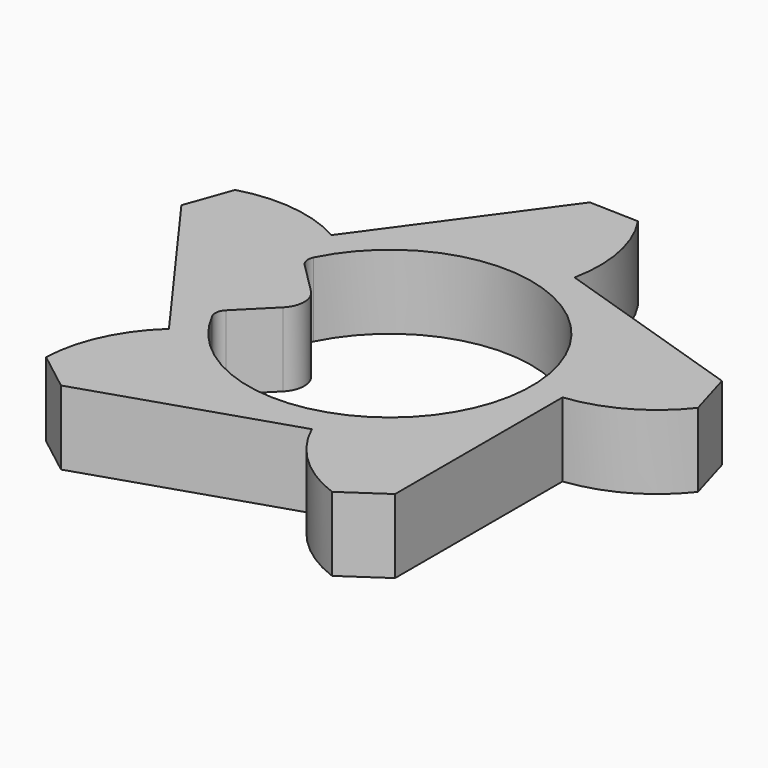
from build123d import *

# Parameters (mm, degrees)
F1_DEPTH = 0.5
F2_DEPTH = 0.6


with BuildPart() as f1:
    # F0 (on Top) → F1 (new body)
    with BuildSketch(Plane.XY):
        with BuildLine():
            Line((1.4, -1.697056), (1.4, 0))
            ThreePointArc((1.4, 0), (1.822033, 0.135222), (2.158922, 0.423148))
            Line((2.158922, 0.423148), (2.04662, 0.80706))
            Line((2.04662, 0.80706), (0.432624, 1.331479))
            ThreePointArc((0.432624, 1.331479), (0.434436, 1.774642), (0.264706, 2.184017))
            Line((0.264706, 2.184017), (-0.135119, 2.195847))
            Line((-0.135119, 2.195847), (-1.132624, 0.822899))
            ThreePointArc((-1.132624, 0.822899), (-1.553537, 0.961567), (-1.995325, 0.926649))
            Line((-1.995325, 0.926649), (-2.130128, 0.550048))
            Line((-2.130128, 0.550048), (-1.132624, -0.822899))
            ThreePointArc((-1.132624, -0.822899), (-1.394574, -1.18036), (-1.497885, -1.611317))
            Line((-1.497885, -1.611317), (-1.181373, -1.855898))
            Line((-1.181373, -1.855898), (0.432624, -1.331479))
            ThreePointArc((0.432624, -1.331479), (0.691642, -1.69107), (1.069581, -1.922497))
            Line((1.069581, -1.922497), (1.4, -1.697056))
        make_face()
        with BuildLine():
            ThreePointArc((-1.028593, 0.514292), (1.15, 0), (-1.028593, -0.514292))
            ThreePointArc((-1.028593, -0.514292), (-1.037859, -0.453553), (-1.009861, -0.398861))
            Line((-1.009861, -0.398861), (-0.752421, -0.141421))
            ThreePointArc((-0.752421, -0.141421), (-0.693843, 0), (-0.752421, 0.141421))
            Line((-0.752421, 0.141421), (-1.009861, 0.398861))
            ThreePointArc((-1.009861, 0.398861), (-1.037859, 0.453553), (-1.028593, 0.514292))
        make_face(mode=Mode.SUBTRACT)
    extrude(amount=F1_DEPTH)


with BuildPart() as f2:
    # F0 (on Top) → F2 (new body)
    with BuildSketch(Plane.XY):
        with BuildLine():
            Line((1.4, -1.697056), (1.4, 0))
            ThreePointArc((1.4, 0), (1.822033, 0.135222), (2.158922, 0.423148))
            Line((2.158922, 0.423148), (2.04662, 0.80706))
            Line((2.04662, 0.80706), (0.432624, 1.331479))
            ThreePointArc((0.432624, 1.331479), (0.434436, 1.774642), (0.264706, 2.184017))
            Line((0.264706, 2.184017), (-0.135119, 2.195847))
            Line((-0.135119, 2.195847), (-1.132624, 0.822899))
            ThreePointArc((-1.132624, 0.822899), (-1.553537, 0.961567), (-1.995325, 0.926649))
            Line((-1.995325, 0.926649), (-2.130128, 0.550048))
            Line((-2.130128, 0.550048), (-1.132624, -0.822899))
            ThreePointArc((-1.132624, -0.822899), (-1.394574, -1.18036), (-1.497885, -1.611317))
            Line((-1.497885, -1.611317), (-1.181373, -1.855898))
            Line((-1.181373, -1.855898), (0.432624, -1.331479))
            ThreePointArc((0.432624, -1.331479), (0.691642, -1.69107), (1.069581, -1.922497))
            Line((1.069581, -1.922497), (1.4, -1.697056))
        make_face()
        with BuildLine():
            ThreePointArc((-1.028593, 0.514292), (1.15, 0), (-1.028593, -0.514292))
            ThreePointArc((-1.028593, -0.514292), (-1.037859, -0.453553), (-1.009861, -0.398861))
            Line((-1.009861, -0.398861), (-0.752421, -0.141421))
            ThreePointArc((-0.752421, -0.141421), (-0.693843, 0), (-0.752421, 0.141421))
            Line((-0.752421, 0.141421), (-1.009861, 0.398861))
            ThreePointArc((-1.009861, 0.398861), (-1.037859, 0.453553), (-1.028593, 0.514292))
        make_face(mode=Mode.SUBTRACT)
    extrude(amount=F2_DEPTH)


solid = Compound([f1.part, f2.part])
